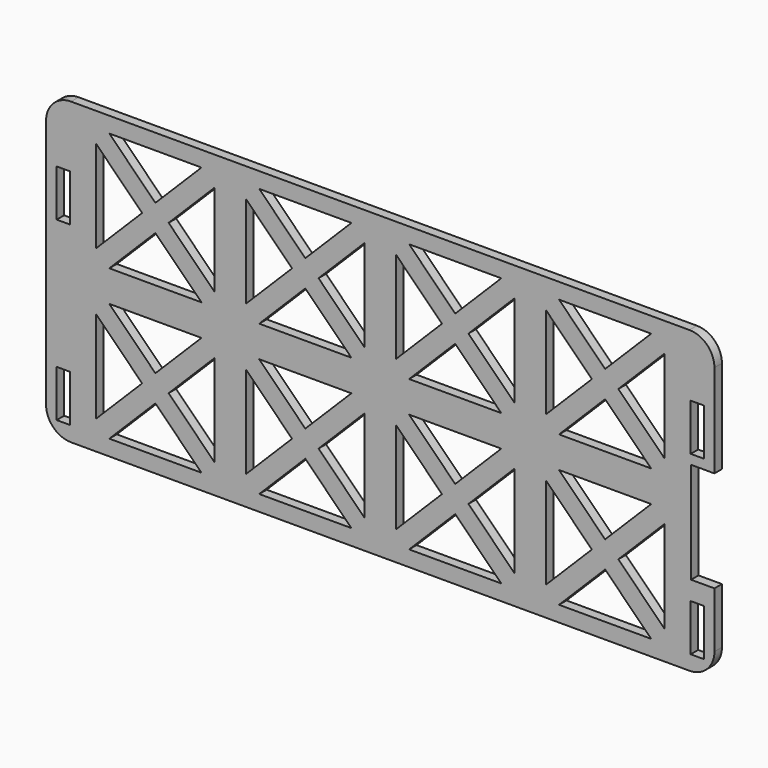
from build123d import *

# Parameters (mm, degrees)
BOX021_W                     = 4.2
BOX021_H                     = 6
BOX021_DEPTH                 = 15
BOX020_W                     = 4.2
BOX020_H                     = 6
BOX020_DEPTH                 = 15
BOX019_W                     = 4.2
BOX019_H                     = 6
BOX019_DEPTH                 = 15
BOX018_W                     = 4.2
BOX018_H                     = 6
BOX018_DEPTH                 = 15
BOX017_W                     = 10
BOX017_H                     = 10
BOX017_DEPTH                 = 32.4
PAD_DEPTH                    = 3
POCKET_DEPTH                 = 472.173047
POCKET_LINEARPATTERN_2_DEPTH = 472.173047
POCKET_LINEARPATTERN_3_DEPTH = 472.173047
POCKET_LINEARPATTERN_4_DEPTH = 472.173047
LINEARPATTERN001_COUNT       = 2
LINEARPATTERN001_PITCH       = 48.025


with BuildPart() as obj1:
    # Box021 → Box021 (new body)
    with BuildSketch(Plane(origin=(211.4, 8, 15.25), x_dir=(1, 0, 0), z_dir=(0, 0, 1))):
        with Locations((2.1, 3)):
            Rectangle(BOX021_W, BOX021_H)
    extrude(amount=BOX021_DEPTH)


with BuildPart() as obj2:
    # Box020 → Box020 (new body)
    with BuildSketch(Plane(origin=(8.4, 8, 15.25), x_dir=(1, 0, 0), z_dir=(0, 0, 1))):
        with Locations((2.1, 3)):
            Rectangle(BOX020_W, BOX020_H)
    extrude(amount=BOX020_DEPTH)


with BuildPart() as obj3:
    # Box019 → Box019 (new body)
    with BuildSketch(Plane(origin=(8.4, 8, 71.75), x_dir=(1, 0, 0), z_dir=(0, 0, 1))):
        with Locations((2.1, 3)):
            Rectangle(BOX019_W, BOX019_H)
    extrude(amount=BOX019_DEPTH)


with BuildPart() as obj4:
    # Box018 → Box018 (new body)
    with BuildSketch(Plane(origin=(211.4, 8, 71.75), x_dir=(1, 0, 0), z_dir=(0, 0, 1))):
        with Locations((2.1, 3)):
            Rectangle(BOX018_W, BOX018_H)
    extrude(amount=BOX018_DEPTH)


with BuildPart() as usbopening:
    # Box017 → Box017 (new body)
    with BuildSketch(Plane(origin=(211.5, 4.5, 36.3), x_dir=(1, 0, 0), z_dir=(0, 0, 1))):
        with Locations((5, 5)):
            Rectangle(BOX017_W, BOX017_H)
    extrude(amount=BOX017_DEPTH)


with BuildPart() as pocketed_back:
    # Sketch005 → Pad (new body)
    with BuildSketch(Plane.XZ):
        with BuildLine():
            Line((-99, 48.025), (99, 48.025))
            ThreePointArc((107, 40.025), (104.656854, 45.681854), (99, 48.025))
            Line((107, 40.025), (107, -40.025))
            ThreePointArc((99, -48.025), (104.656854, -45.681854), (107, -40.025))
            Line((99, -48.025), (-99, -48.025))
            ThreePointArc((-107, -40.025), (-104.656854, -45.681854), (-99, -48.025))
            Line((-107, -40.025), (-107, 40.025))
            ThreePointArc((-99, 48.025), (-104.656854, 45.681854), (-107, 40.025))
        make_face()
    extrude(amount=PAD_DEPTH)

    # Sketch006 (on Face10 of Pad) → Pocket (cut, through all)
    with BuildSketch(Plane.XZ.offset(3)):
        Polygon((-91, 38.769859), (-91, 9.255141), (-76.242641, 24.0125), align=None)
        Polygon((-86.757359, 43.0125), (-57.242641, 43.0125), (-72, 28.255141), align=None)
        Polygon((-67.757359, 24.0125), (-53, 38.769859), (-53, 9.255141), align=None)
        Polygon((-72, 19.769859), (-57.242641, 5.0125), (-86.757359, 5.0125), align=None)
    pocket = extrude(amount=-POCKET_DEPTH, mode=Mode.SUBTRACT)

    # Sketch006 LinearPattern 2 → Pocket LinearPattern 2 (cut, through all)
    with BuildSketch(Plane(origin=(48, -3, 0), x_dir=(1, 0, 0), z_dir=(0, -1, 0))):
        Polygon((-91, 38.769859), (-91, 9.255141), (-76.242641, 24.0125), align=None)
        Polygon((-86.757359, 43.0125), (-57.242641, 43.0125), (-72, 28.255141), align=None)
        Polygon((-67.757359, 24.0125), (-53, 38.769859), (-53, 9.255141), align=None)
        Polygon((-72, 19.769859), (-57.242641, 5.0125), (-86.757359, 5.0125), align=None)
    pocket_linearpattern_2 = extrude(amount=-POCKET_LINEARPATTERN_2_DEPTH, mode=Mode.SUBTRACT)

    # Sketch006 LinearPattern 3 → Pocket LinearPattern 3 (cut, through all)
    with BuildSketch(Plane(origin=(96, -3, 0), x_dir=(1, 0, 0), z_dir=(0, -1, 0))):
        Polygon((-91, 38.769859), (-91, 9.255141), (-76.242641, 24.0125), align=None)
        Polygon((-86.757359, 43.0125), (-57.242641, 43.0125), (-72, 28.255141), align=None)
        Polygon((-67.757359, 24.0125), (-53, 38.769859), (-53, 9.255141), align=None)
        Polygon((-72, 19.769859), (-57.242641, 5.0125), (-86.757359, 5.0125), align=None)
    pocket_linearpattern_3 = extrude(amount=-POCKET_LINEARPATTERN_3_DEPTH, mode=Mode.SUBTRACT)

    # Sketch006 LinearPattern 4 → Pocket LinearPattern 4 (cut, through all)
    with BuildSketch(Plane(origin=(144, -3, 0), x_dir=(1, 0, 0), z_dir=(0, -1, 0))):
        Polygon((-91, 38.769859), (-91, 9.255141), (-76.242641, 24.0125), align=None)
        Polygon((-86.757359, 43.0125), (-57.242641, 43.0125), (-72, 28.255141), align=None)
        Polygon((-67.757359, 24.0125), (-53, 38.769859), (-53, 9.255141), align=None)
        Polygon((-72, 19.769859), (-57.242641, 5.0125), (-86.757359, 5.0125), align=None)
    pocket_linearpattern_4 = extrude(amount=-POCKET_LINEARPATTERN_4_DEPTH, mode=Mode.SUBTRACT)

    # LinearPattern001: Pocket, Pocket LinearPattern 2, Pocket LinearPattern 3, Pocket LinearPattern 4 ×2
    with Locations(*[(0, 0, -i * LINEARPATTERN001_PITCH) for i in range(1, LINEARPATTERN001_COUNT)]):
        add(pocket, mode=Mode.SUBTRACT)
        add(pocket_linearpattern_2, mode=Mode.SUBTRACT)
        add(pocket_linearpattern_3, mode=Mode.SUBTRACT)
        add(pocket_linearpattern_4, mode=Mode.SUBTRACT)


with BuildPart() as pocketed_back_1:
    # Body placement: moved
    add(pocketed_back.part.moved(Location((112, 12.5, 58.5))))

    # Cut010: cut USBOpening
    add(usbopening.part, mode=Mode.SUBTRACT)

    # Cut011: cut obj4
    add(obj4.part, mode=Mode.SUBTRACT)

    # Cut012: cut obj3
    add(obj3.part, mode=Mode.SUBTRACT)

    # Cut013: cut obj2
    add(obj2.part, mode=Mode.SUBTRACT)

    # Cut014: cut obj1
    add(obj1.part, mode=Mode.SUBTRACT)


solid = pocketed_back_1.part
